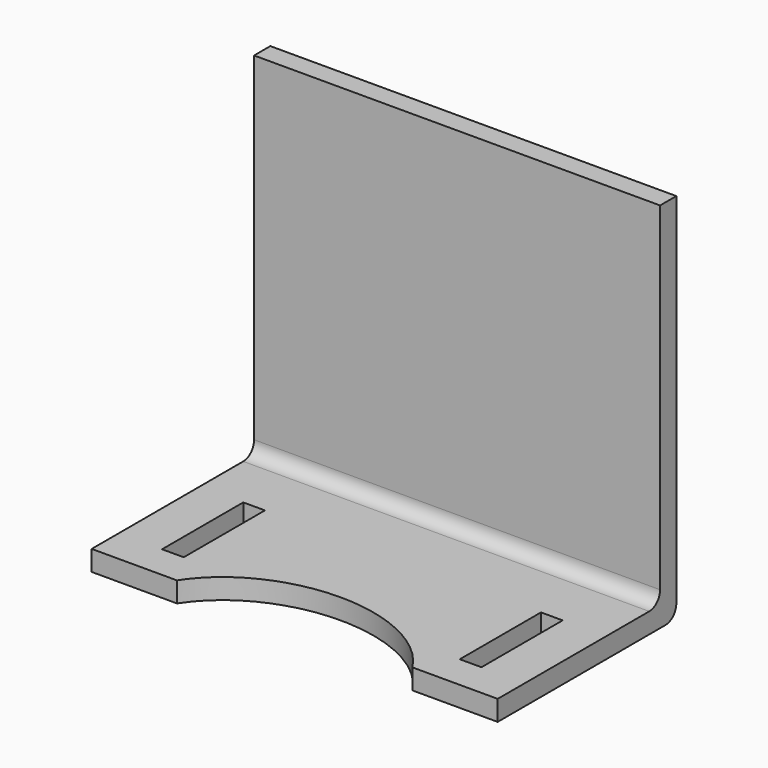
from build123d import *

# Parameters (mm, degrees)
F1_DEPTH = 30
F2_W     = 3.2
F2_H     = 15
F3_DEPTH = 25
F5_DEPTH = 25
F6_R     = 2


with BuildPart() as f1:
    # F0 (on Right) → F1 (new body, symmetric)
    with BuildSketch(Plane.YZ):
        Polygon((-16.5, -24.5), (-16.5, -27.5), (16.5, -27.5), (16.5, 27.5), (13.5, 27.5), (13.5, -24.5), align=None)
    extrude(amount=F1_DEPTH, both=True)

    # F2 (on face) → F3 (cut)
    with BuildSketch(Plane(origin=(0, 0, -27.5), x_dir=(1, 0, 0), z_dir=(0, 0, -1))):
        with Locations((22, 4)):
            Rectangle(F2_W, F2_H)
        with Locations((-22, 4)):
            Rectangle(F2_W, F2_H)
    extrude(amount=-F3_DEPTH, mode=Mode.SUBTRACT)

    # F4 (on face) → F5 (cut)
    with BuildSketch(Plane(origin=(0, 0, -27.5), x_dir=(1, 0, 0), z_dir=(0, 0, -1))):
        with BuildLine():
            add(Edge.make_bspline(
                [(19.5, 23.5), (19.5, 50.3467875173), (-9.75, 36.9233937587), (-39, 23.5), (-9.75, 10.0766062413), (19.5, -3.3467875173), (19.5, 23.5)],
                knots=[0, 0, 0, 2.0943951024, 2.0943951024, 4.1887902048, 4.1887902048, 6.2831853072, 6.2831853072, 6.2831853072], degree=2, weights=[1, 0.5, 1, 0.5, 1, 0.5, 1]))
        make_face()
    extrude(amount=-F5_DEPTH, mode=Mode.SUBTRACT)

    # F6
    f6_edges = [f1.edges().sort_by_distance(p)[0] for p in [
        (0, 13.5, -24.5),
        (0, 16.5, -27.5),
    ]]
    fillet(f6_edges, radius=F6_R)


solid = f1.part
